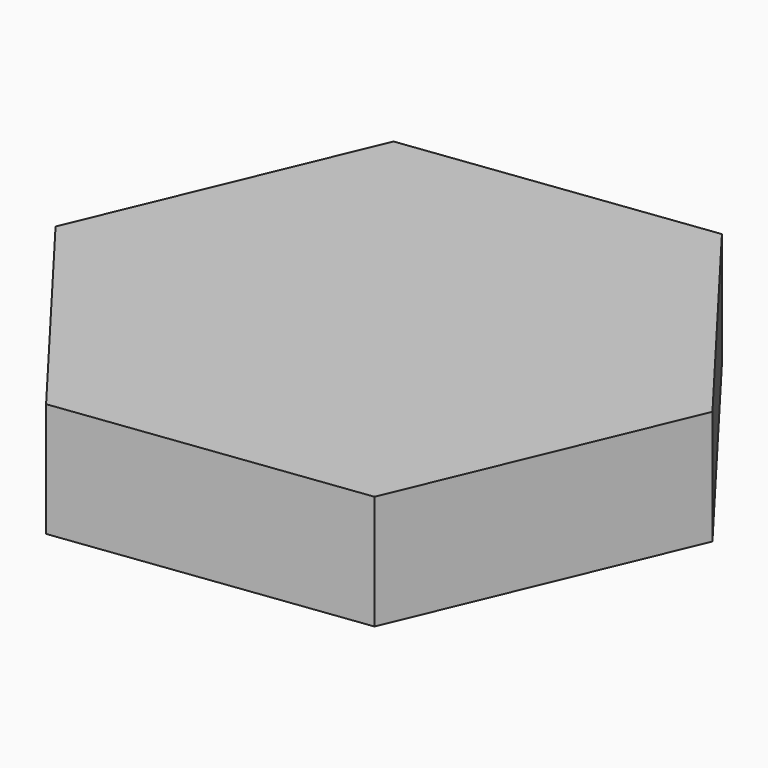
from build123d import *

# Parameters (mm, degrees)
F1_DEPTH = 25.4


with BuildPart() as f1:
    # F0 (on Top) → F1 (new body)
    with BuildSketch(Plane.XY):
        Polygon((25.839649, 61.617626), (-40.442605, 53.186605), (-66.282253, -8.431021), (-25.839649, -61.617626), (40.442605, -53.186605), (66.282253, 8.431021), align=None)
    extrude(amount=F1_DEPTH)


with BuildPart() as f2_1:
    # F2: copy of F1
    add(f1.part)


with BuildPart() as f3_1:
    # F3: copy of F2_1
    add(f2_1.part)


solid = Compound([f1.part, f2_1.part, f3_1.part])
